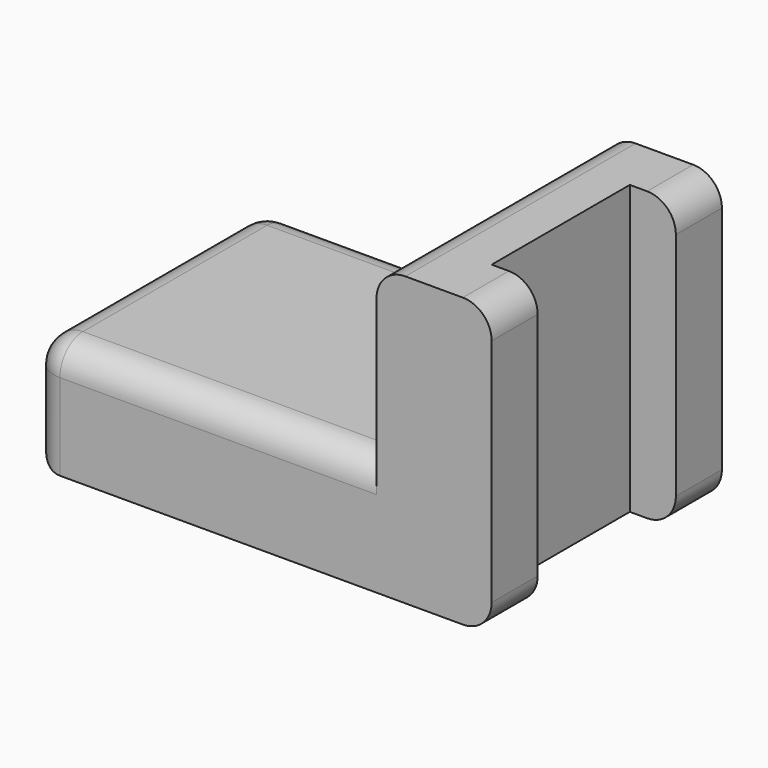
from build123d import *

# Parameters (mm, degrees)
F0_W     = 60
F0_H     = 50
F1_DEPTH = 20
F2_DEPTH = 50
F3_R     = 5
F4_R     = 5
F5_R     = 5
F6_R     = 5
F7_R     = 5


with BuildPart() as f1:
    # F0 (on Top) → F1 (new body)
    with BuildSketch(Plane.XY):
        with Locations((-42, 44.3040782763)):
            Rectangle(F0_W, F0_H)
    extrude(amount=F1_DEPTH)

    # F0 (on Top) → F2 (join)
    with BuildSketch(Plane.XY):
        Polygon((8, 69.3040782763), (-12, 69.3040782763), (-12, 19.3040782763), (8, 19.3040782763), (8, 29.3040782763), (0, 29.3040782763), (0, 59.3040782763), (8, 59.3040782763), align=None)
    extrude(amount=F2_DEPTH)

    # F3
    f3_edges = [f1.edges().sort_by_distance(p)[0] for p in [
        (-72, 44.304078, 20),
    ]]
    fillet(f3_edges, radius=F3_R)

    # F4
    f4_edges = [f1.edges().sort_by_distance(p)[0] for p in [
        (-12, 44.304078, 50),
    ]]
    fillet(f4_edges, radius=F4_R)

    # F5
    f5_edges = [f1.edges().sort_by_distance(p)[0] for p in [
        (-72, 69.304078, 7.5),
        (-72, 44.304078, 15),
        (-72, 44.304078, 0),
        (-72, 19.304078, 7.5),
    ]]
    fillet(f5_edges, radius=F5_R)

    # F6
    f6_edges = [f1.edges().sort_by_distance(p)[0] for p in [
        (8, 24.304078, 50),
        (8, 64.304078, 50),
    ]]
    fillet(f6_edges, radius=F6_R)

    # F7
    f7_edges = [f1.edges().sort_by_distance(p)[0] for p in [
        (8, 24.304078, 0),
        (8, 64.304078, 0),
    ]]
    fillet(f7_edges, radius=F7_R)


solid = f1.part
